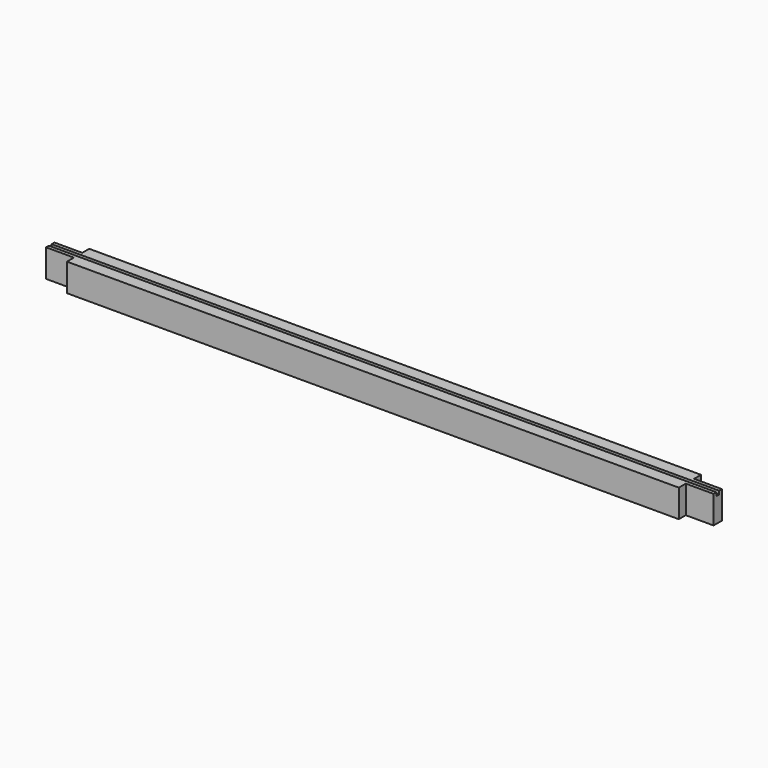
from build123d import *

# Parameters (mm, degrees)
F0_W     = 558.8
F0_H     = 25.4
F1_DEPTH = 25.4
F2_W     = 558.8
F2_H     = 3.175
F3_DEPTH = 3.175
F5_DEPTH = 25.4
F7_DEPTH = 25.4


with BuildPart() as f1:
    # F0 (on Front) → F1 (new body)
    with BuildSketch(Plane.XZ):
        Rectangle(F0_W, F0_H)
    extrude(amount=F1_DEPTH)

    # F2 (on face) → F3 (cut)
    with BuildSketch(Plane.XY.offset(12.7)):
        with Locations((0, -12.7)):
            Rectangle(F2_W, F2_H)
    extrude(amount=-F3_DEPTH, mode=Mode.SUBTRACT)

    # F4 (on face) → F5 (join)
    with BuildSketch(Plane(origin=(-279.4, 0, 0), x_dir=(0, -1, 0), z_dir=(-1, 0, 0))):
        Polygon((7.9375, -12.7), (17.4625, -12.7), (17.4625, 12.7), (14.2875, 12.7), (14.2875, 9.525), (11.1125, 9.525), (11.1125, 12.7), (7.9375, 12.7), align=None)
    extrude(amount=F5_DEPTH)

    # F6 (on face) → F7 (join)
    with BuildSketch(Plane.YZ.offset(279.4)):
        Polygon((-17.4625, -12.7), (-7.9375, -12.7), (-7.9375, 12.7), (-11.1125, 12.7), (-11.1125, 9.525), (-14.2875, 9.525), (-14.2875, 12.7), (-17.4625, 12.7), align=None)
    extrude(amount=F7_DEPTH)


solid = f1.part
